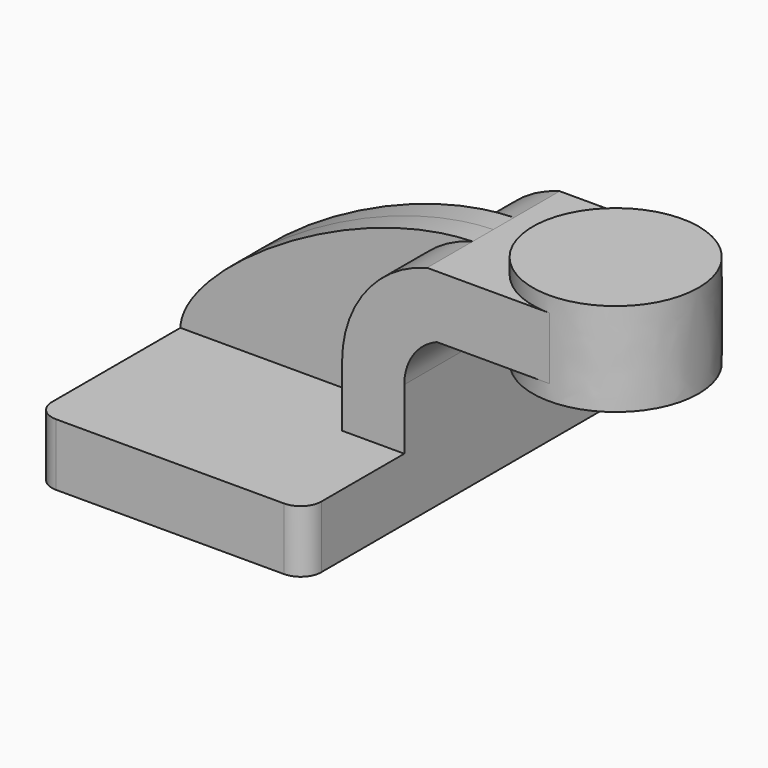
from build123d import *

# Parameters (mm, degrees)
F1_DEPTH = 25.4
F2_DEPTH = 63.5
F3_DEPTH = 7.9375
F5_R     = 6.35


with BuildPart() as f1:
    # F0 (on Front) → F1 (new body, symmetric)
    with BuildSketch(Plane.XZ):
        with BuildLine():
            Line((22.225, 28.1521443485), (22.225, 9.525))
            Line((22.225, 9.525), (41.275, 9.525))
            Line((41.275, 9.525), (41.275, 28.1521443485))
            ThreePointArc((41.275, 28.1521443485), (43.992026211, 37.0337743098), (51.2130599394, 42.8752))
            Line((51.2130599394, 42.8752), (60.325, 42.8752))
            Line((60.325, 42.8752), (60.325, 61.9252))
            Line((60.325, 61.9252), (48.2541393355, 61.9252))
            ThreePointArc((48.2541393355, 61.9252), (29.4873576939, 49.4719437295), (22.225, 28.1521443485))
        make_face()
        Polygon((85.7263787281, 61.9252), (60.325, 61.9252), (60.325, 42.8752), (85.7319083861, 42.8752), align=None)
    extrude(amount=F1_DEPTH, both=True)

    # F0 (on Front) → F2 (join, symmetric)
    with BuildSketch(Plane.XZ):
        Polygon((22.225, 9.525), (-41.275, 9.525), (-41.275, -9.525), (41.275, -9.525), (41.275, 9.525), align=None)
    extrude(amount=F2_DEPTH, both=True)

    # F0 (on Front) → F3 (join, symmetric)
    with BuildSketch(Plane.XZ):
        with BuildLine():
            add(Edge.make_bspline(
                [(-41.275, 9.525), (-40.7644435763, 26.8716271967), (9.3228099868, 60.8724653721), (48.2541393355, 61.9252)],
                knots=[0, 0, 0, 0, 103.7364340538, 103.7364340538, 103.7364340538, 103.7364340538], degree=3))
            Line((-41.275, 9.525), (22.225, 9.525))
            Line((22.225, 9.525), (22.225, 28.1521443485))
            ThreePointArc((22.225, 28.1521443485), (29.4873576939, 49.4719437295), (48.2541393355, 61.9252))
        make_face()
    extrude(amount=F3_DEPTH, both=True)

    # F0 (on Front) → F4 (revolve)
    with BuildSketch(Plane.XZ):
        Polygon((85.725, 66.675), (85.7263787281, 61.9252), (85.7319083861, 42.8752), (85.733294487, 38.1), (111.125, 38.1), (111.125, 66.675), align=None)
    revolve(axis=Axis((85.7291472435, 0, 52.3875), (0.0002902707, 0, -0.9999999579)))

    # F5
    f5_edges = [f1.edges().sort_by_distance(p)[0] for p in [
        (-41.275, -63.5, 0),
        (41.275, -63.5, 0),
        (-41.275, 63.5, 0),
        (41.275, 63.5, 0),
    ]]
    fillet(f5_edges, radius=F5_R)


solid = f1.part
